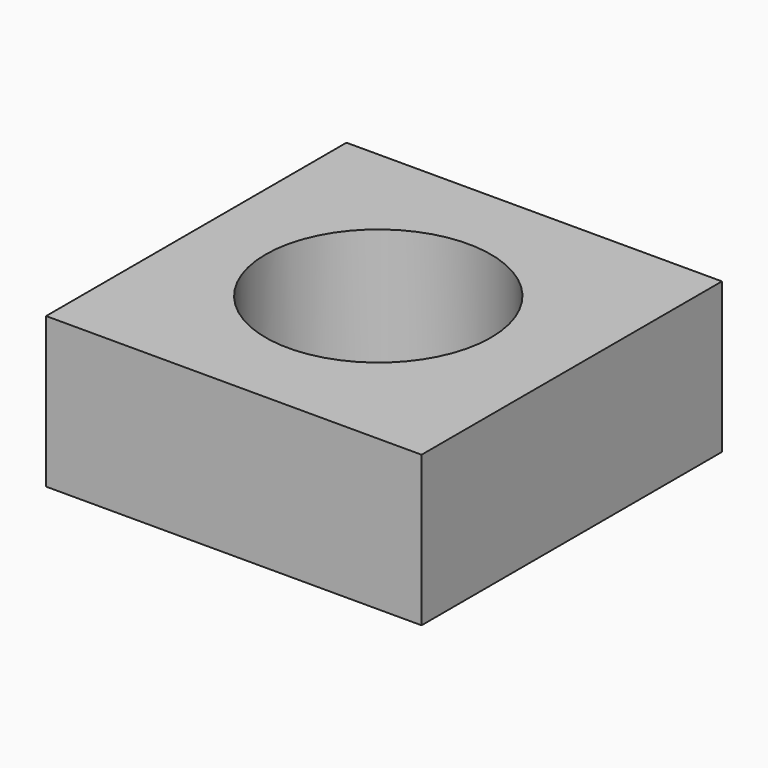
from build123d import *

# Parameters (mm, degrees)
F1_DEPTH = 10


with BuildPart() as f1:
    # F0 (on Top) → F1 (new body)
    with BuildSketch(Plane.XY):
        with BuildLine():
            Line((-69.7358559817, 12.4485804441), (-94.7358559817, 12.4485804441))
            Line((-94.7358559817, 12.4485804441), (-94.7358559817, -12.5514195559))
            Line((-94.7358559817, -12.5514195559), (-82.2358559817, -12.5514195559))
            Line((-82.2358559817, -12.5514195559), (-82.2358559817, -7.4881173271))
            ThreePointArc((-82.2358559817, -7.4881173271), (-88.1083383981, 5.1519349585), (-75.1578736305, 0))
            ThreePointArc((-75.1578736305, 0), (-75.1579176973, -0.025709929), (-75.1580498973, -0.0514195559))
            Line((-75.1580498973, -0.0514195559), (-69.7358559817, -0.0514195559))
            Line((-69.7358559817, -0.0514195559), (-69.7358559817, 12.4485804441))
        make_face()
        with BuildLine():
            Line((-69.7358559817, -12.5514195559), (-69.7358559817, -0.0514195559))
            Line((-69.7358559817, -0.0514195559), (-75.1580498973, -0.0514195559))
            ThreePointArc((-75.1580498973, -0.0514195559), (-77.2251016718, -5.1705888296), (-82.2358559817, -7.4881173271))
            Line((-82.2358559817, -7.4881173271), (-82.2358559817, -12.5514195559))
            Line((-82.2358559817, -12.5514195559), (-69.7358559817, -12.5514195559))
        make_face()
    extrude(amount=F1_DEPTH)


solid = f1.part
